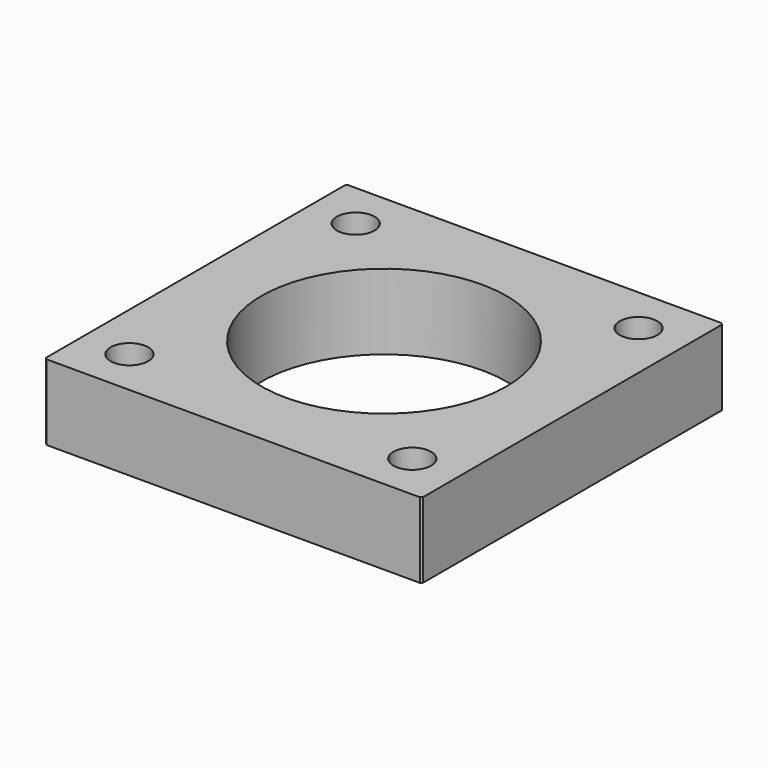
from build123d import *

# Parameters (mm, degrees)
F0_W     = 20
F0_H     = 20
F0_R     = 1
F0_R_2   = 8.5
F0_R_3   = 7
F0_R_4   = 6.5
F1_DEPTH = 4
F2_SIZE  = 0.1


with BuildPart() as f1:
    # F0 (on Top) → F1 (new body)
    with BuildSketch(Plane.XY):
        with Locations((10, -10)):
            Rectangle(F0_W, F0_H)
        with Locations((2.5, -17.5)):
            Circle(F0_R, mode=Mode.SUBTRACT)
        with Locations((17.5, -17.5)):
            Circle(F0_R, mode=Mode.SUBTRACT)
        with Locations((2.5, -2.5)):
            Circle(F0_R, mode=Mode.SUBTRACT)
        with Locations((10, -10)):
            Circle(F0_R_2, mode=Mode.SUBTRACT)
        with Locations((17.5, -2.5)):
            Circle(F0_R, mode=Mode.SUBTRACT)
        with Locations((10, -10)):
            Circle(F0_R_2)
        with Locations((10, -10)):
            Circle(F0_R_3, mode=Mode.SUBTRACT)
        with Locations((10, -10)):
            Circle(F0_R_3)
        with Locations((10, -10)):
            Circle(F0_R_4, mode=Mode.SUBTRACT)
    extrude(amount=F1_DEPTH)

    # F2
    f2_edges = [f1.edges().sort_by_distance(p)[0] for p in [
        (0, -20, 2),
        (0, 0, 2),
        (20, 0, 2),
        (20, -20, 2),
    ]]
    chamfer(f2_edges, length=F2_SIZE)


solid = f1.part
